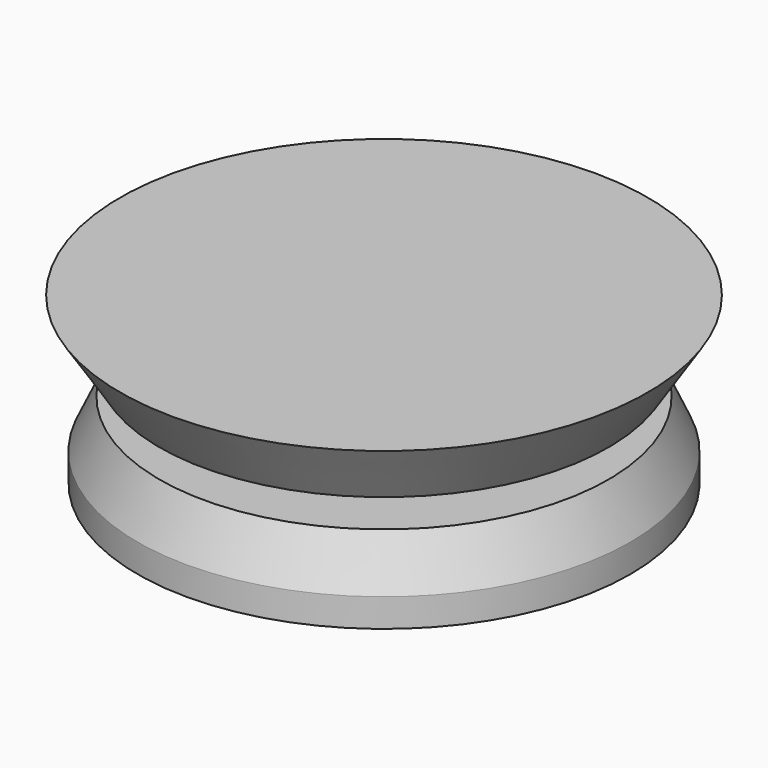
from build123d import *


with BuildPart() as f1:
    # F0 (on Right) → F1 (revolve)
    with BuildSketch(Plane.YZ):
        Polygon((24.432695, 31.096155), (0, 31.096155), (0, 25.44231), (20.798078, 25.44231), align=None)
        Polygon((20.798078, 22.81731), (0, 22.81731), (0, 15.75), (22.817306, 15.751904), (22.817306, 18.375), align=None)
    revolve(axis=Axis((0, 0, 19.283655), (0, 0, 1)))


solid = f1.part
